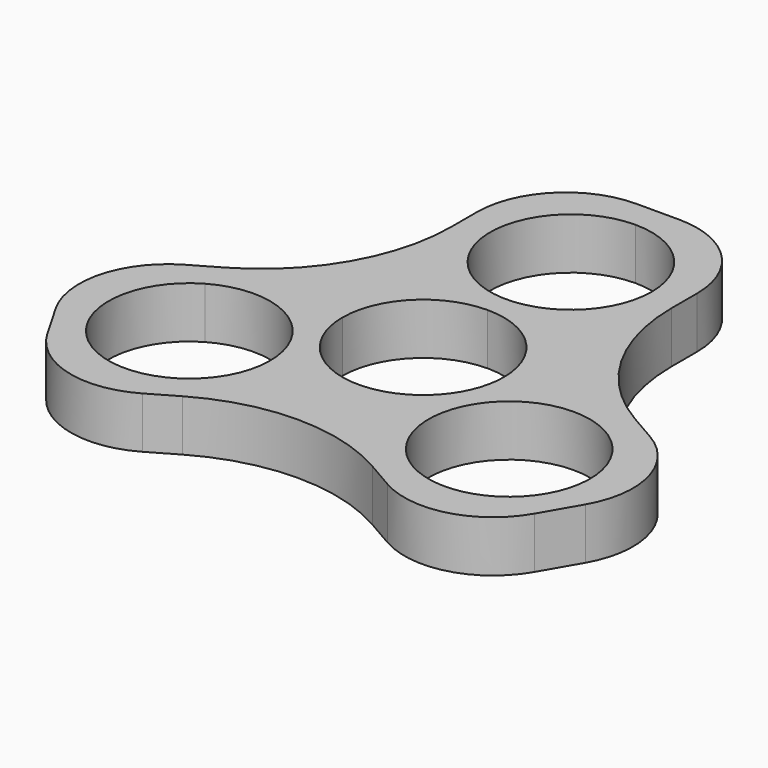
from build123d import *

# Parameters (mm, degrees)
F1_DEPTH = 7
F3_ANGLE = 120
F4_ANGLE = 240
F6_R     = 25.8564064606
F7_R     = 25.856
F8_R     = 25.856
F9_R     = 12.0710678119
F10_R    = 12.071
F11_R    = 12.071
F12_R    = 12.071
F13_R    = 12.071
F14_R    = 12.071


with BuildPart() as f1:
    # F0 (on Top) → F1 (new body)
    with BuildSketch(Plane.XY):
        with BuildLine():
            ThreePointArc((-11, 0), (-7.7781745931, 7.7781745931), (0, 11))
            Line((0, 11), (0, 14.1644365489))
            ThreePointArc((0, 14.1644365489), (-11, 25.1644365489), (0, 36.1644365489))
            Line((0, 36.1644365489), (0, 40))
            Line((0, 40), (-15, 40))
            Line((-15, 40), (-15, 0))
            Line((-15, 0), (-11, 0))
        make_face()
        with BuildLine():
            ThreePointArc((0, 11), (7.7781745931, 7.7781745931), (11, 0))
            Line((11, 0), (15, 0))
            Line((15, 0), (15, 40))
            Line((15, 40), (0, 40))
            Line((0, 40), (0, 36.1644365489))
            ThreePointArc((0, 36.1644365489), (7.7781745931, 32.942611142), (11, 25.1644365489))
            ThreePointArc((11, 25.1644365489), (7.7781745931, 17.3862619559), (0, 14.1644365489))
            Line((0, 14.1644365489), (0, 11))
        make_face()
    extrude(amount=F1_DEPTH)


with BuildPart() as f3_1:
    # F3: copy of F1
    add(f1.part.rotate(Axis((0, 0, 22.2638938576), (0, 0, 1)), F3_ANGLE))


with BuildPart() as f4_1:
    # F4: copy of F1
    add(f1.part.rotate(Axis((0, 0, 22.2638938576), (0, 0, 1)), F4_ANGLE))


with BuildPart() as f1_1:
    add(f1.part)

    # F5: union F3_1, F4_1
    add(f3_1.part)
    add(f4_1.part)

    # F6
    f6_edges = [f1_1.edges().sort_by_distance(p)[0] for p in [
        (0, -17.320508, 3.5),
    ]]
    fillet(f6_edges, radius=F6_R)

    # F7
    f7_edges = [f1_1.edges().sort_by_distance(p)[0] for p in [
        (-15, 8.660254, 3.5),
    ]]
    fillet(f7_edges, radius=F7_R)

    # F8
    f8_edges = [f1_1.edges().sort_by_distance(p)[0] for p in [
        (15, 8.660254, 3.5),
    ]]
    fillet(f8_edges, radius=F8_R)

    # F9
    f9_edges = [f1_1.edges().sort_by_distance(p)[0] for p in [
        (-27.141016, -32.990381, 3.5),
    ]]
    fillet(f9_edges, radius=F9_R)

    # F10
    f10_edges = [f1_1.edges().sort_by_distance(p)[0] for p in [
        (-42.141016, -7.009619, 3.5),
    ]]
    fillet(f10_edges, radius=F10_R)

    # F11
    f11_edges = [f1_1.edges().sort_by_distance(p)[0] for p in [
        (-15, 40, 3.5),
    ]]
    fillet(f11_edges, radius=F11_R)

    # F12
    f12_edges = [f1_1.edges().sort_by_distance(p)[0] for p in [
        (15, 40, 3.5),
    ]]
    fillet(f12_edges, radius=F12_R)

    # F13
    f13_edges = [f1_1.edges().sort_by_distance(p)[0] for p in [
        (27.141016, -32.990381, 3.5),
    ]]
    fillet(f13_edges, radius=F13_R)

    # F14
    f14_edges = [f1_1.edges().sort_by_distance(p)[0] for p in [
        (42.141016, -7.009619, 3.5),
    ]]
    fillet(f14_edges, radius=F14_R)


solid = f1_1.part
